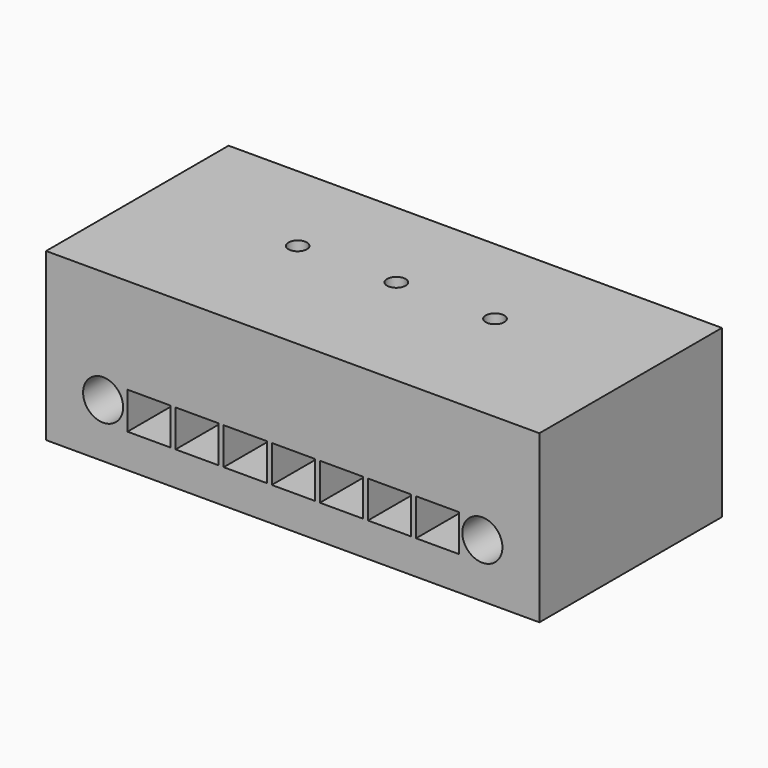
from build123d import *

# Parameters (mm, degrees)
BOX_W           = 7
BOX_H           = 37
BOX_DEPTH       = 6
ARRAY_X_COUNT   = 7
ARRAY_X_PITCH   = 7.8
SKETCH_W        = 80
SKETCH_H        = 27
PAD_DEPTH       = 37
SKETCH001_R     = 3.25
POCKET_DEPTH    = 37.501
SKETCH002_R     = 1.5
POCKET001_DEPTH = 27.001


with BuildPart() as array:
    # Box → Box (new body)
    with BuildSketch(Plane(origin=(20, -37, 5.5), x_dir=(1, 0, 0), z_dir=(0, 0, 1))):
        with Locations((3.5, 18.5)):
            Rectangle(BOX_W, BOX_H)
    extrude(amount=BOX_DEPTH)

    # Array X: Array ×7


with BuildPart() as array_1:
    add(array.part)
    with Locations(*[(-i * ARRAY_X_PITCH, 0, 0) for i in range(1, ARRAY_X_COUNT)]):
        add(array.part)


with BuildPart() as cut:
    # Sketch → Pad (new body)
    with BuildSketch(Plane.XZ):
        with Locations((0, 13.5)):
            Rectangle(SKETCH_W, SKETCH_H)
    extrude(amount=PAD_DEPTH)

    # Sketch001 → Pocket (cut, through all)
    with BuildSketch(Plane.XZ.offset(37.5)):
        with Locations((-30.75, 8.75)):
            Circle(SKETCH001_R)
        with Locations((30.75, 8.75)):
            Circle(SKETCH001_R)
    extrude(amount=-POCKET_DEPTH, mode=Mode.SUBTRACT)

    # Sketch002 (on Face6 of Pocket) → Pocket001 (cut, through all)
    with BuildSketch(Plane(origin=(0, 0, 27), x_dir=(-1, 0, 0), z_dir=(0, 0, 1))):
        with Locations((-16, 16)):
            Circle(SKETCH002_R)
        with Locations((16, 16)):
            Circle(SKETCH002_R)
        with Locations((0, 16)):
            Circle(SKETCH002_R)
    extrude(amount=-POCKET001_DEPTH, mode=Mode.SUBTRACT)

    # Cut: cut Array
    add(array_1.part, mode=Mode.SUBTRACT)


solid = cut.part
